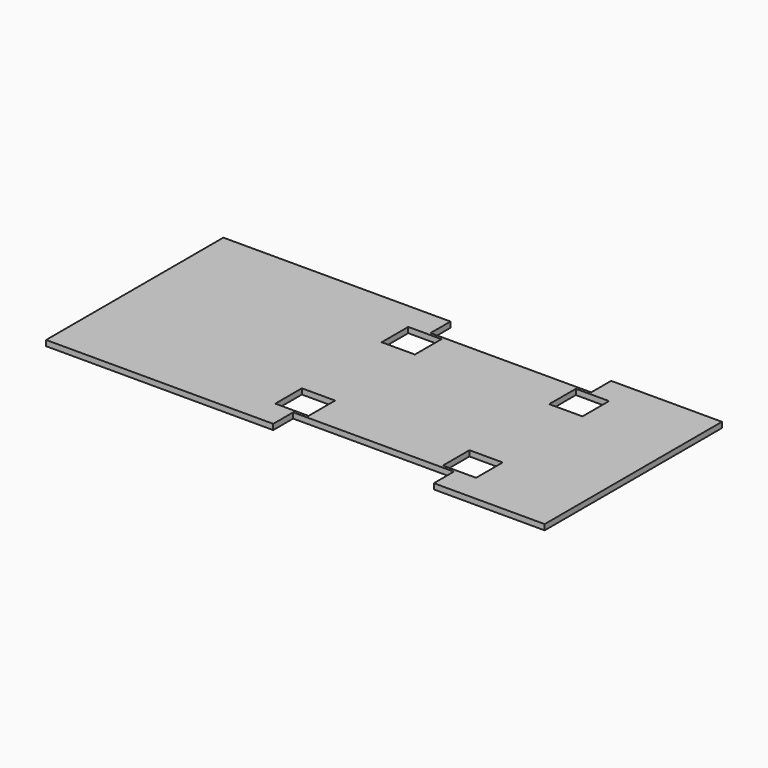
from build123d import *

# Parameters (mm, degrees)
SKETCH_W        = 1800
SKETCH_H        = 800
PAD_DEPTH       = 20
SKETCH001_W     = 580
SKETCH001_H     = 90
POCKET_DEPTH    = 20
SKETCH002_W     = 120
SKETCH002_H     = 120
POCKET001_DEPTH = 20


with BuildPart() as part:
    # Sketch → Pad (new body)
    with BuildSketch(Plane.XY):
        Rectangle(SKETCH_W, SKETCH_H)
    extrude(amount=PAD_DEPTH)

    # Sketch001 (on Face6 of Pad) → Pocket (cut)
    with BuildSketch(Plane.XY.offset(20)):
        with Locations((210, -355)):
            Rectangle(SKETCH001_W, SKETCH001_H)
        with Locations((210, 355)):
            Rectangle(SKETCH001_W, SKETCH001_H)
    extrude(amount=-POCKET_DEPTH, mode=Mode.SUBTRACT)

    # Sketch002 (on Face4 of Pocket) → Pocket001 (cut)
    with BuildSketch(Plane(origin=(0, 0, 0), x_dir=(1, 0, 0), z_dir=(0, 0, -1))):
        with Locations((-92.5, 240)):
            Rectangle(SKETCH002_W, SKETCH002_H)
        with Locations((512.5, 240)):
            Rectangle(SKETCH002_W, SKETCH002_H)
        with Locations((-92.5, -240)):
            Rectangle(SKETCH002_W, SKETCH002_H)
        with Locations((512.5, -240)):
            Rectangle(SKETCH002_W, SKETCH002_H)
    extrude(amount=-POCKET001_DEPTH, mode=Mode.SUBTRACT)


solid = part.part
